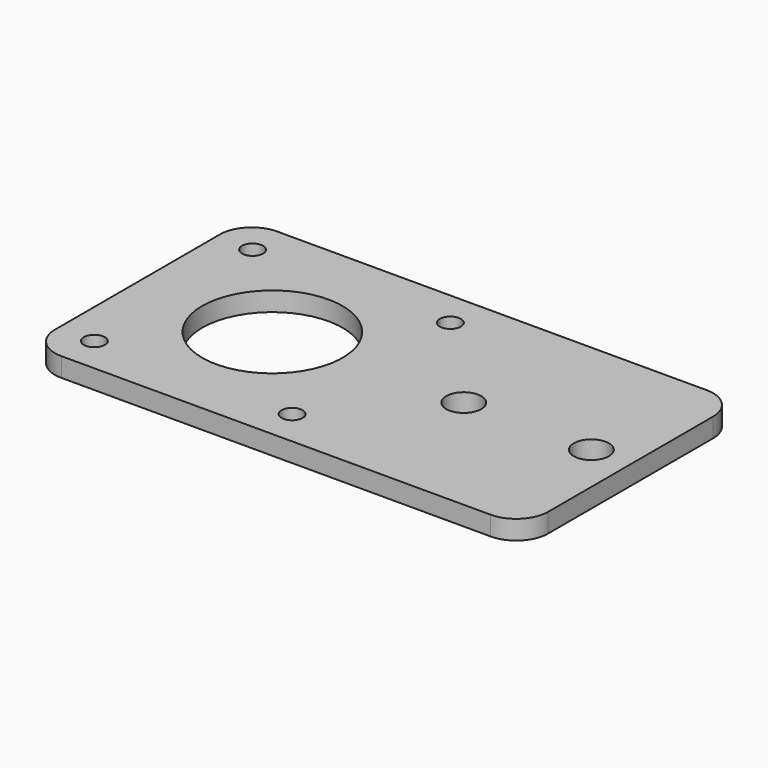
from build123d import *

# Parameters (mm, degrees)
F1_DEPTH = 3
F3_D     = 3.3
F5_D     = 5.5
F6_R     = 5


with BuildPart() as f1:
    # F0 (on Top) → F1 (new body)
    with BuildSketch(Plane.XY):
        Polygon((0, 21.15), (0, 0), (77.3, 0), (77.3, 42.3), (0, 42.3), align=None)
        with BuildLine():
            ThreePointArc((32.15, 21.15), (21.15, 10.15), (10.15, 21.15))
            ThreePointArc((10.15, 21.15), (21.15, 32.15), (32.15, 21.15))
        make_face(mode=Mode.SUBTRACT)
    extrude(amount=F1_DEPTH)

    # F3 (through all)
    with Locations(Plane.XY.offset(3)):
        with Locations((5.65, 36.65), (36.65, 36.65), (36.65, 5.65), (5.65, 5.65)):
            Hole(F3_D / 2)

    # F5 (through all)
    with Locations(Plane.XY.offset(3)):
        with Locations((51.15, 21.15), (71.15, 21.15)):
            Hole(F5_D / 2)

    # F6
    f6_edges = [f1.edges().sort_by_distance(p)[0] for p in [
        (77.3, 0, 1.5),
        (0, 0, 1.5),
        (77.3, 42.3, 1.5),
        (0, 42.3, 1.5),
    ]]
    fillet(f6_edges, radius=F6_R)


solid = f1.part
